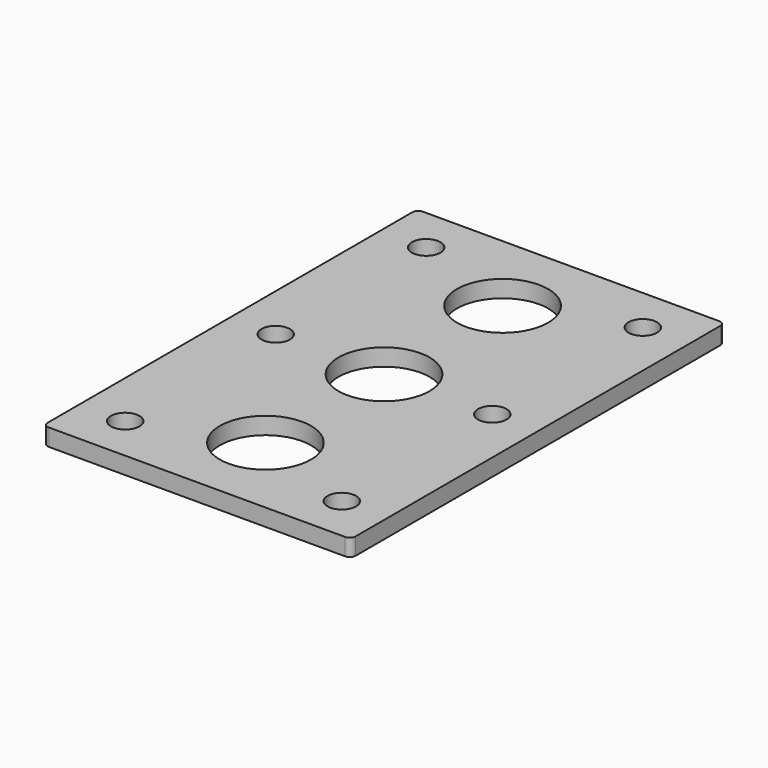
from build123d import *

# Parameters (mm, degrees)
F0_W     = 54
F0_H     = 82
F0_R     = 2.5
F0_R_2   = 8
F1_DEPTH = 5
F2_R     = 1
F3_R     = 8
F4_DEPTH = 25
F5_DEPTH = 2


with BuildPart() as f1:
    # F0 (on Top) → F1 (new body)
    with BuildSketch(Plane.XY):
        Rectangle(F0_W, F0_H)
        with Locations((-19, -33)):
            Circle(F0_R, mode=Mode.SUBTRACT)
        with Locations((0, -26)):
            Circle(F0_R_2, mode=Mode.SUBTRACT)
        with Locations((19, -33)):
            Circle(F0_R, mode=Mode.SUBTRACT)
        with Locations((-19, 0)):
            Circle(F0_R, mode=Mode.SUBTRACT)
        with Locations((-19, 33)):
            Circle(F0_R, mode=Mode.SUBTRACT)
        with Locations((19, 0)):
            Circle(F0_R, mode=Mode.SUBTRACT)
        with Locations((0, 26)):
            Circle(F0_R_2, mode=Mode.SUBTRACT)
        with Locations((19, 33)):
            Circle(F0_R, mode=Mode.SUBTRACT)
    extrude(amount=F1_DEPTH)

    # F2
    f2_edges = [f1.edges().sort_by_distance(p)[0] for p in [
        (27, -41, 2.5),
        (-27, -41, 2.5),
        (-27, 41, 2.5),
        (27, 41, 2.5),
    ]]
    fillet(f2_edges, radius=F2_R)

    # F3 (on face) → F4 (cut)
    with BuildSketch(Plane.XY.offset(5)):
        Circle(F3_R)
    extrude(amount=-F4_DEPTH, mode=Mode.SUBTRACT)

    # F5 (cut): a face of the model
    f5_faces = [f1.faces().sort_by_distance(p)[0] for p in [
        (26.0181649833, 0, 5),
    ]]
    extrude(f5_faces, amount=-F5_DEPTH, mode=Mode.SUBTRACT)


solid = f1.part
